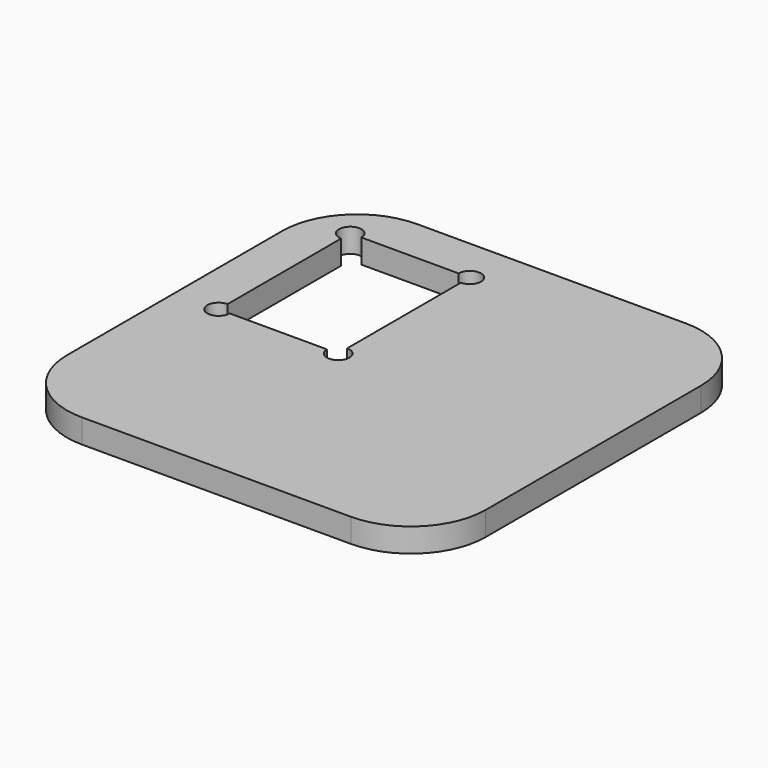
from build123d import *

# Parameters (mm, degrees)
F1_DEPTH = 1.6
F3_DEPTH = 1.601


with BuildPart() as f1:
    # F0 (on Top) → F1 (new body)
    with BuildSketch(Plane.XY):
        with BuildLine():
            Line((9, 14), (-9, 14))
            ThreePointArc((-9, 14), (-12.535534, 12.535534), (-14, 9))
            Line((-14, 9), (-14, -9))
            ThreePointArc((-14, -9), (-12.535534, -12.535534), (-9, -14))
            Line((-9, -14), (9, -14))
            ThreePointArc((9, -14), (12.535534, -12.535534), (14, -9))
            Line((14, -9), (14, 9))
            ThreePointArc((14, 9), (12.535534, 12.535534), (9, 14))
        make_face()
    extrude(amount=F1_DEPTH)

    # F2 (on face) → F3 (cut, through all)
    with BuildSketch(Plane.XY.offset(1.6)):
        with BuildLine():
            Line((-3.812446, 11), (-10.312446, 11))
            ThreePointArc((-10.312446, 11), (-11.592776, 11.53033), (-11.062446, 10.25))
            Line((-11.062446, 10.25), (-11.062446, 0.75))
            ThreePointArc((-11.062446, 0.75), (-11.592776, -0.53033), (-10.312446, 0))
            Line((-10.312446, 0), (-3.812446, 0))
            ThreePointArc((-3.812446, 0), (-2.532116, -0.53033), (-3.062446, 0.75))
            Line((-3.062446, 0.75), (-3.062446, 10.25))
            ThreePointArc((-3.062446, 10.25), (-2.532116, 11.53033), (-3.812446, 11))
        make_face()
    extrude(amount=-F3_DEPTH, mode=Mode.SUBTRACT)


solid = f1.part
